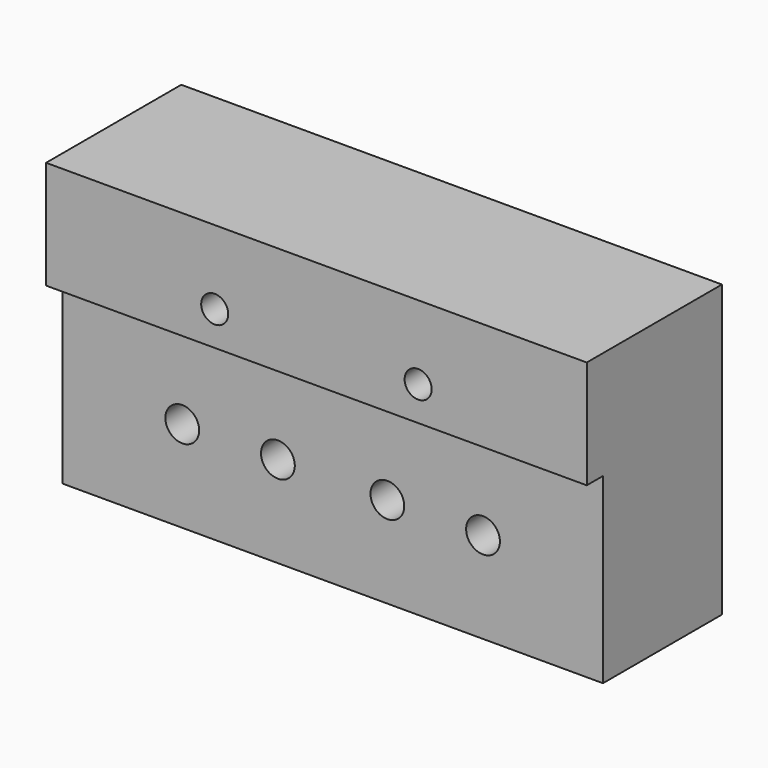
from build123d import *

# Parameters (mm, degrees)
F0_W           = 80
F0_H           = 43
F1_DEPTH       = 25
F2_W           = 3
F2_H           = 27
F3_DEPTH       = 80.001
F4_R           = 2.5
F5_DEPTH       = 25.001
F6_D           = 4
F6_CSINK_D     = 9.2
F6_CSINK_ANGLE = 90
F7_D           = 5
F7_CSINK_D     = 11.5
F7_CSINK_ANGLE = 90


with BuildPart() as f1:
    # F0 (on Front) → F1 (new body)
    with BuildSketch(Plane.XZ):
        Rectangle(F0_W, F0_H)
    extrude(amount=F1_DEPTH)

    # F2 (on face) → F3 (cut, through all)
    with BuildSketch(Plane.YZ.offset(40)):
        with Locations((-23.5, -8)):
            Rectangle(F2_W, F2_H)
    extrude(amount=-F3_DEPTH, mode=Mode.SUBTRACT)

    # F4 (on face) → F5 (cut, through all)
    with BuildSketch(Plane(origin=(0, 0, 0), x_dir=(-1, 0, 0), z_dir=(0, 1, 0))):
        with Locations((-8.1, -8)):
            Circle(F4_R)
        with Locations((8.1, -8)):
            Circle(F4_R)
    extrude(amount=-F5_DEPTH, mode=Mode.SUBTRACT)

    # F6 (through all)
    with Locations(Plane(origin=(0, 0, 0), x_dir=(-1, 0, 0), z_dir=(0, 1, 0))):
        with Locations((-15.05, 10.55), (15.05, 10.55)):
            CounterSinkHole(F6_D / 2, F6_CSINK_D / 2, counter_sink_angle=F6_CSINK_ANGLE)

    # F7 (through all)
    with Locations(Plane(origin=(0, 0, 0), x_dir=(-1, 0, 0), z_dir=(0, 1, 0))):
        with Locations((-22.25, -8), (22.25, -8)):
            CounterSinkHole(F7_D / 2, F7_CSINK_D / 2, counter_sink_angle=F7_CSINK_ANGLE)


solid = f1.part
